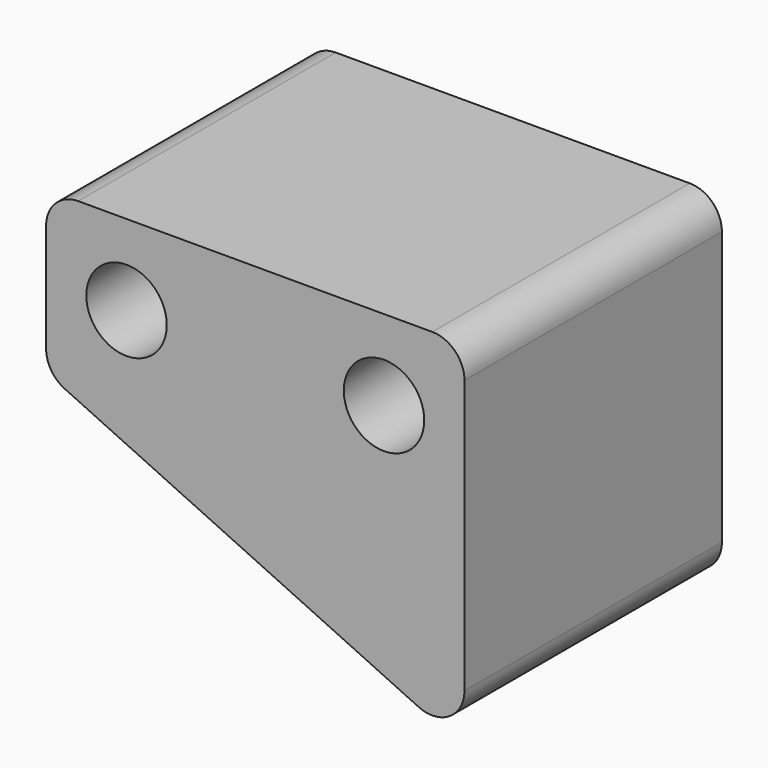
from build123d import *

# Parameters (mm, degrees)
F1_DEPTH = 20
F2_D     = 5
F3_R     = 2


with BuildPart() as f1:
    # F0 (on Front) → F1 (new body)
    with BuildSketch(Plane.XZ):
        Polygon((26, 0), (0, 0), (0, -10), (26, -22.123999112), align=None)
    extrude(amount=F1_DEPTH)

    # F2 (through all)
    with Locations(Plane(origin=(0, 0, 0), x_dir=(1, 0, 0), z_dir=(0, 1, 0))):
        with Locations((5, 5), (21, 5)):
            Hole(F2_D / 2)

    # F3
    f3_edges = [f1.edges().sort_by_distance(p)[0] for p in [
        (26, -10, -22.123999),
        (0, -10, -10),
        (0, -10, 0),
        (26, -10, 0),
    ]]
    fillet(f3_edges, radius=F3_R)


solid = f1.part
